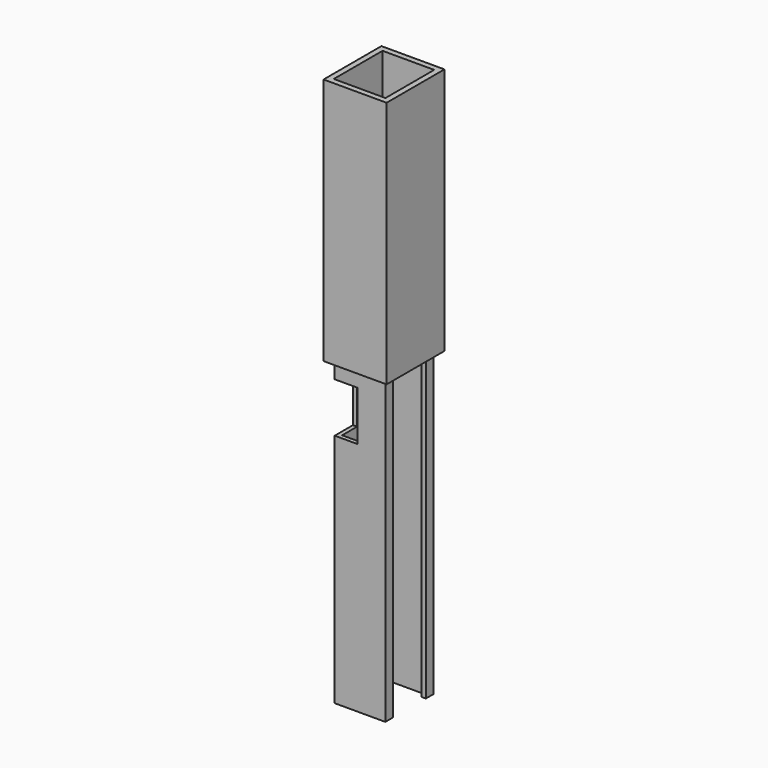
from build123d import *

# Parameters (mm, degrees)
BOX006_W     = 16
BOX006_H     = 5
BOX006_DEPTH = 34
BOX005_W     = 16
BOX005_H     = 5
BOX005_DEPTH = 34
BOX004_W     = 16
BOX004_H     = 8
BOX004_DEPTH = 34
BOX003_W     = 12
BOX003_H     = 12
BOX003_DEPTH = 24
BOX001_W     = 20.5
BOX001_H     = 25
BOX001_DEPTH = 202
BOX002_W     = 24.5
BOX002_H     = 20
BOX002_DEPTH = 200
BOX_W        = 24.5
BOX_H        = 29
BOX_DEPTH    = 200
BOX014_W     = 16
BOX014_H     = 5
BOX014_DEPTH = 48
BOX013_W     = 16
BOX013_H     = 5
BOX013_DEPTH = 47
BOX012_W     = 16
BOX012_H     = 8
BOX012_DEPTH = 52
BOX008_W     = 25
BOX008_H     = 29.5
BOX008_DEPTH = 200
BOX007_W     = 30.5
BOX007_H     = 35
BOX007_DEPTH = 120


with BuildPart() as cube006:
    # Box006 → Box006 (new body)
    with BuildSketch(Plane(origin=(-2, 20.5, 177.5), x_dir=(1, 0, 0), z_dir=(0, 0, 1))):
        with Locations((8, 2.5)):
            Rectangle(BOX006_W, BOX006_H)
    extrude(amount=BOX006_DEPTH)


with BuildPart() as cube005:
    # Box005 → Box005 (new body)
    with BuildSketch(Plane(origin=(-2, 3.5, 177.5), x_dir=(1, 0, 0), z_dir=(0, 0, 1))):
        with Locations((8, 2.5)):
            Rectangle(BOX005_W, BOX005_H)
    extrude(amount=BOX005_DEPTH)


with BuildPart() as slots:
    # Box004 → Box004 (new body)
    with BuildSketch(Plane(origin=(-2, 10.5, 174), x_dir=(1, 0, 0), z_dir=(0, 0, 1))):
        with Locations((8, 4)):
            Rectangle(BOX004_W, BOX004_H)
    extrude(amount=BOX004_DEPTH)

    # Fusion001: union Cube006, Cube005
    add(cube006.part)
    add(cube005.part)


with BuildPart() as cube003:
    # Box003 → Box003 (new body)
    with BuildSketch(Plane(origin=(-1, -1, 114), x_dir=(1, 0, 0), z_dir=(0, 0, 1))):
        with Locations((6, 6)):
            Rectangle(BOX003_W, BOX003_H)
    extrude(amount=BOX003_DEPTH)


with BuildPart() as cube001:
    # Box001 → Box001 (new body)
    with BuildSketch(Plane(origin=(2, 2, -1), x_dir=(1, 0, 0), z_dir=(0, 0, 1))):
        with Locations((10.25, 12.5)):
            Rectangle(BOX001_W, BOX001_H)
    extrude(amount=BOX001_DEPTH)


with BuildPart() as fusion:
    # Box002 → Box002 (new body)
    with BuildSketch(Plane(origin=(6, 4.5, 0), x_dir=(1, 0, 0), z_dir=(0, 0, 1))):
        with Locations((12.25, 10)):
            Rectangle(BOX002_W, BOX002_H)
    extrude(amount=BOX002_DEPTH)

    # Fusion: union Cube001
    add(cube001.part)


with BuildPart() as cut002:
    # Box → Box (new body)
    with BuildSketch(Plane.XY):
        with Locations((12.25, 14.5)):
            Rectangle(BOX_W, BOX_H)
    extrude(amount=BOX_DEPTH)

    # Cut: cut Fusion
    add(fusion.part, mode=Mode.SUBTRACT)

    # Cut001: cut Cube003
    add(cube003.part, mode=Mode.SUBTRACT)

    # Cut002: cut slots
    add(slots.part, mode=Mode.SUBTRACT)


with BuildPart() as cube014:
    # Box014 → Box014 (new body)
    with BuildSketch(Plane(origin=(-5, 3.5, 137.5), x_dir=(1, 0, 0), z_dir=(0, 0, 1))):
        with Locations((8, 2.5)):
            Rectangle(BOX014_W, BOX014_H)
    extrude(amount=BOX014_DEPTH)


with BuildPart() as cube013:
    # Box013 → Box013 (new body)
    with BuildSketch(Plane(origin=(-5, 20.5, 138.5), x_dir=(1, 0, 0), z_dir=(0, 0, 1))):
        with Locations((8, 2.5)):
            Rectangle(BOX013_W, BOX013_H)
    extrude(amount=BOX013_DEPTH)


with BuildPart() as bigslots:
    # Box012 → Box012 (new body)
    with BuildSketch(Plane(origin=(-5, 10.5, 137), x_dir=(1, 0, 0), z_dir=(0, 0, 1))):
        with Locations((8, 4)):
            Rectangle(BOX012_W, BOX012_H)
    extrude(amount=BOX012_DEPTH)

    # Fusion002: union Cube014, Cube013
    add(cube014.part)
    add(cube013.part)


with BuildPart() as cube008:
    # Box008 → Box008 (new body)
    with BuildSketch(Plane(origin=(-0.25, -0.25, 190), x_dir=(1, 0, 0), z_dir=(0, 0, 1))):
        with Locations((12.5, 14.75)):
            Rectangle(BOX008_W, BOX008_H)
    extrude(amount=BOX008_DEPTH)


with BuildPart() as cut004:
    # Box007 → Box007 (new body)
    with BuildSketch(Plane(origin=(-3, -3, 200), x_dir=(1, 0, 0), z_dir=(0, 0, 1))):
        with Locations((15.25, 17.5)):
            Rectangle(BOX007_W, BOX007_H)
    extrude(amount=BOX007_DEPTH)

    # Cut003: cut Cube008
    add(cube008.part, mode=Mode.SUBTRACT)


with BuildPart() as cut004_1:
    # Cut003 placement: moved
    add(cut004.part.moved(Location((0, 0, -54))))

    # Cut004: cut bigslots
    add(bigslots.part, mode=Mode.SUBTRACT)


solid = Compound([cut002.part, cut004_1.part])
